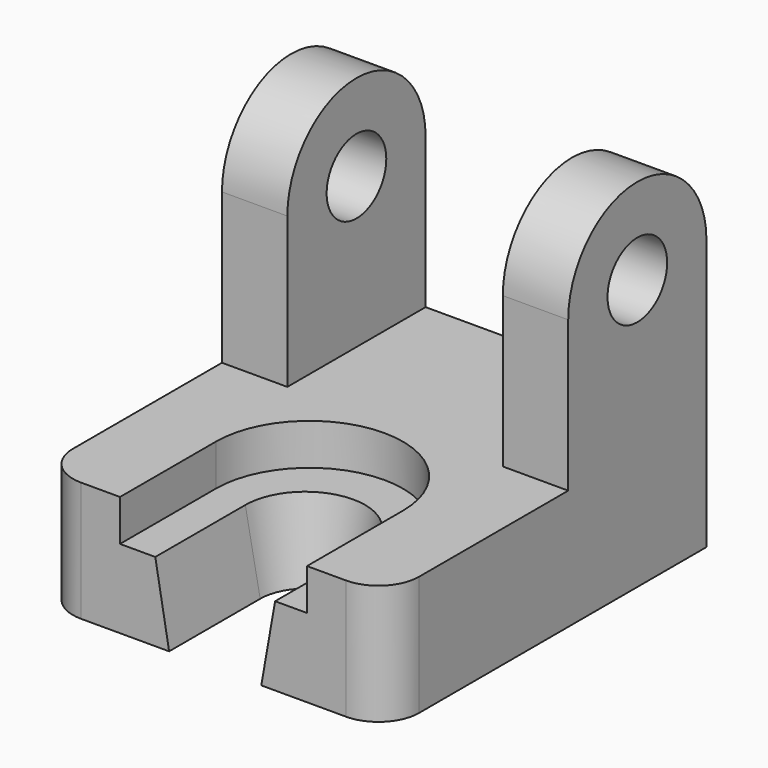
from build123d import *

# Parameters (mm, degrees)
PAD_DEPTH    = 17.7
POCKET_DEPTH = 6.1
SKETCH004_R  = 5.5
PAD001_DEPTH = 9.65
SKETCH005_R  = 5.5
PAD002_DEPTH = 9.65


with BuildPart() as obj1:
    # Sketch002 → Loft section 0
    with BuildSketch(Plane.XY):
        with BuildLine():
            Line((32.6, -42.200036), (32.6, -60))
            Line((32.6, -60), (19, -60))
            Line((19, -60), (19, -42.200036))
            ThreePointArc((32.6, -42.200036), (25.8, -35.4), (19, -42.200036))
        make_face()
    # Sketch003 → Loft section 1
    with BuildSketch(Plane.XY.offset(12.5)):
        with BuildLine():
            Line((34.8, -42.4), (34.8, -61))
            Line((34.8, -61), (16.8, -61))
            Line((16.8, -61), (16.8, -42.4))
            ThreePointArc((34.8, -42.4), (25.8, -33.4), (16.8, -42.4))
        make_face()
    loft(ruled=True)


with BuildPart() as base:
    # Sketch → Pad (new body)
    with BuildSketch(Plane.XY):
        with BuildLine():
            Line((0, 0), (51.1, 0))
            Line((51.1, 0), (51.1, -53))
            ThreePointArc((45.1, -59), (49.342641, -57.242641), (51.1, -53))
            Line((45.1, -59), (6, -59))
            ThreePointArc((0, -53), (1.757359, -57.242641), (6, -59))
            Line((0, -53), (0, 0))
        make_face()
    extrude(amount=PAD_DEPTH)

    # Sketch001 → Pocket (cut)
    with BuildSketch(Plane.XY.offset(17.7)):
        with BuildLine():
            Line((39.35, -41.3), (39.35, -59))
            Line((11.75, -59), (39.35, -59))
            Line((11.75, -59), (11.75, -41.3))
            ThreePointArc((39.35, -41.3), (25.55, -27.5), (11.75, -41.3))
        make_face()
    extrude(amount=-POCKET_DEPTH, mode=Mode.SUBTRACT)

    # Cut: cut obj1
    add(obj1.part, mode=Mode.SUBTRACT)


with BuildPart() as obj2:
    # Sketch004 → Pad001 (new body)
    with BuildSketch(Plane.YZ):
        with BuildLine():
            Line((0, 39.9), (0, 0))
            Line((0, 0), (-25.5, 0))
            Line((-25.5, 0), (-25.5, 39.9))
            ThreePointArc((0, 39.9), (-12.75, 52.65), (-25.5, 39.9))
        make_face()
        with Locations((-12.75, 39.9)):
            Circle(SKETCH004_R, mode=Mode.SUBTRACT)
    extrude(amount=PAD001_DEPTH)


with BuildPart() as obj3:
    # Sketch005 → Pad002 (new body)
    with BuildSketch(Plane.YZ.offset(51.1)):
        with BuildLine():
            Line((0, 39.9), (0, 0))
            Line((0, 0), (-25.5, 0))
            Line((-25.5, 0), (-25.5, 39.9))
            ThreePointArc((0, 39.9), (-12.75, 52.65), (-25.5, 39.9))
        make_face()
        with Locations((-12.75, 39.9)):
            Circle(SKETCH005_R, mode=Mode.SUBTRACT)
    extrude(amount=-PAD002_DEPTH)

    # Fusion: union obj2
    add(obj2.part)

    # Fusion001: union Base
    add(base.part)


solid = obj3.part
